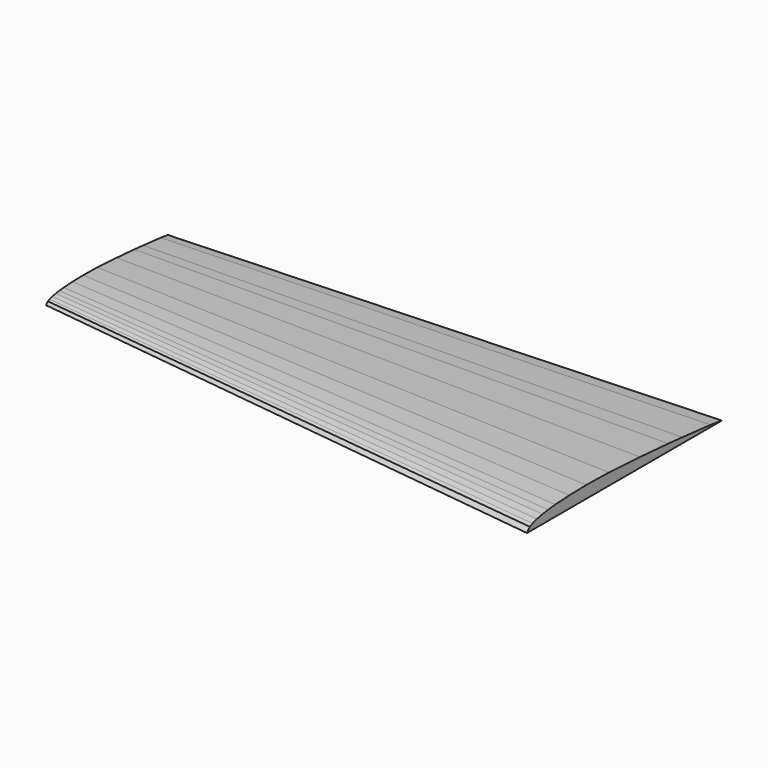
from build123d import *


with BuildPart() as f4:
    # F2 (on offset) → F4 section 0
    with BuildSketch(Plane.YZ.offset(228.6)):
        Polygon((-12.703175, 0), (74.215625, 0), (69.174335, 0.69535), (56.5798, 1.912214), (50.278187, 2.477186), (37.683653, 3.389833), (23.827927, 4.172102), (13.746216, 4.34594), (6.18428, 4.172102), (-0.108641, 3.824427), (-3.263793, 3.476752), (-5.775747, 3.129077), (-8.296392, 2.607564), (-10.191222, 1.999132), (-11.451544, 1.47762), align=None)
    # F3 (on offset) → F4 section 1
    with BuildSketch(Plane.YZ.offset(533.4)):
        Polygon((-48.521501, 2.3654), (-50.525134, 0), (88.616066, 0), (80.545876, 1.11313), (60.384316, 3.061106), (50.296579, 3.965524), (30.135019, 5.426507), (7.954521, 6.678778), (-8.184467, 6.95706), (-20.289752, 6.678778), (-30.363574, 6.122213), (-35.4144, 5.565648), (-39.435581, 5.009083), (-43.470675, 4.174236), (-46.503954, 3.200248), align=None)
    loft()


solid = f4.part
